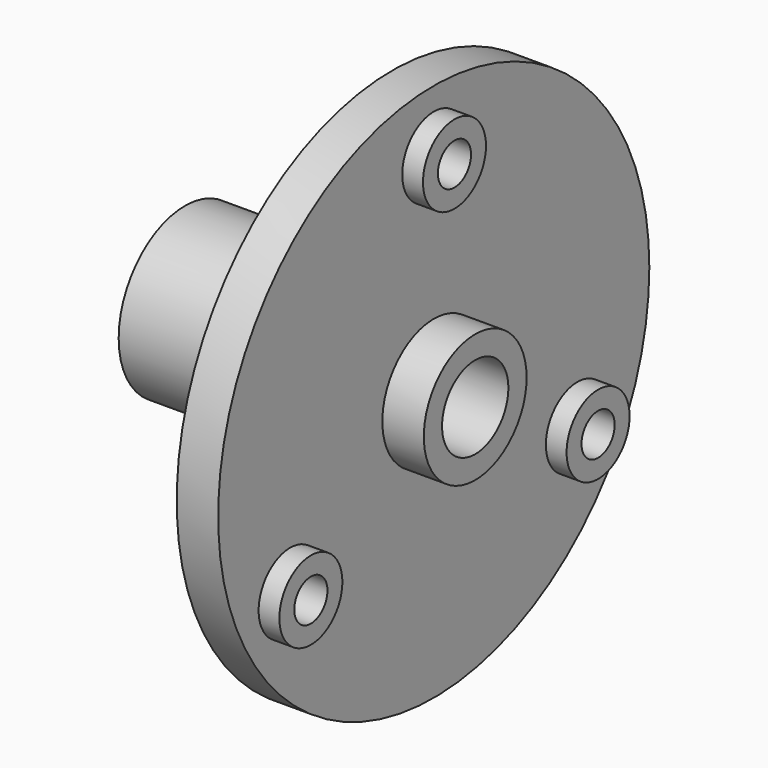
from build123d import *

# Parameters (mm, degrees)
F0_R      = 13
F0_R_2    = 1
F0_R_3    = 2
F1_DEPTH  = 2
F4_R      = 4
F4_R_2    = 1
F5_DEPTH  = 10
F6_R      = 2.5
F6_R_2    = 1
F7_DEPTH  = 1
F8_R      = 1
F9_DEPTH  = 8
F2_R      = 1.9
F2_R_2    = 1
F10_DEPTH = 1
F3_R      = 3.1
F3_R_2    = 2
F11_DEPTH = 2


with BuildPart() as f1:
    # F0 (on Right) → F1 (new body)
    with BuildSketch(Plane.YZ):
        Circle(F0_R)
        with Locations((-8.660254, -5)):
            Circle(F0_R_2, mode=Mode.SUBTRACT)
        with Locations((8.660254, -5)):
            Circle(F0_R_2, mode=Mode.SUBTRACT)
        Circle(F0_R_3, mode=Mode.SUBTRACT)
        with Locations((0, 10)):
            Circle(F0_R_2, mode=Mode.SUBTRACT)
    extrude(amount=-F1_DEPTH)

    # F4 (on face) → F5 (join)
    with BuildSketch(Plane(origin=(-2, 0, 0), x_dir=(0, -1, 0), z_dir=(-1, 0, 0))):
        Circle(F4_R)
        Circle(F4_R_2, mode=Mode.SUBTRACT)
    extrude(amount=F5_DEPTH)

    # F6 (on face) → F7 (cut)
    with BuildSketch(Plane(origin=(-2, 0, 0), x_dir=(0, -1, 0), z_dir=(-1, 0, 0))):
        with Locations((0, 10)):
            Circle(F6_R)
        with Locations((0, 10)):
            Circle(F6_R_2, mode=Mode.SUBTRACT)
        with Locations((8.660254, -5)):
            Circle(F6_R)
        with Locations((8.660254, -5)):
            Circle(F6_R_2, mode=Mode.SUBTRACT)
        with Locations((-8.660254, -5)):
            Circle(F6_R)
        with Locations((-8.660254, -5)):
            Circle(F6_R_2, mode=Mode.SUBTRACT)
    extrude(amount=-F7_DEPTH, mode=Mode.SUBTRACT)

    # F8 (on face) → F9 (cut)
    with BuildSketch(Plane(origin=(-12, 0, 0), x_dir=(0, -1, 0), z_dir=(-1, 0, 0))):
        Circle(F8_R)
        with BuildLine():
            ThreePointArc((-1.5, 2), (-1.118034, -2.236068), (2.5, 0))
            ThreePointArc((2.5, 0), (2.236068, 1.118034), (1.5, 2))
            Line((1.5, 2), (-1.5, 2))
        make_face()
        Circle(F8_R, mode=Mode.SUBTRACT)
    extrude(amount=-F9_DEPTH, mode=Mode.SUBTRACT)

    # F2 (on face) → F10 (join)
    with BuildSketch(Plane.YZ):
        with Locations((0, 10)):
            Circle(F2_R)
        with Locations((0, 10)):
            Circle(F2_R_2, mode=Mode.SUBTRACT)
        with Locations((8.660254, -5)):
            Circle(F2_R)
        with Locations((8.660254, -5)):
            Circle(F2_R_2, mode=Mode.SUBTRACT)
        with Locations((-8.660254, -5)):
            Circle(F2_R)
        with Locations((-8.660254, -5)):
            Circle(F2_R_2, mode=Mode.SUBTRACT)
    extrude(amount=F10_DEPTH)

    # F3 (on face) → F11 (join)
    with BuildSketch(Plane.YZ):
        Circle(F3_R)
        Circle(F3_R_2, mode=Mode.SUBTRACT)
    extrude(amount=F11_DEPTH)


solid = f1.part
